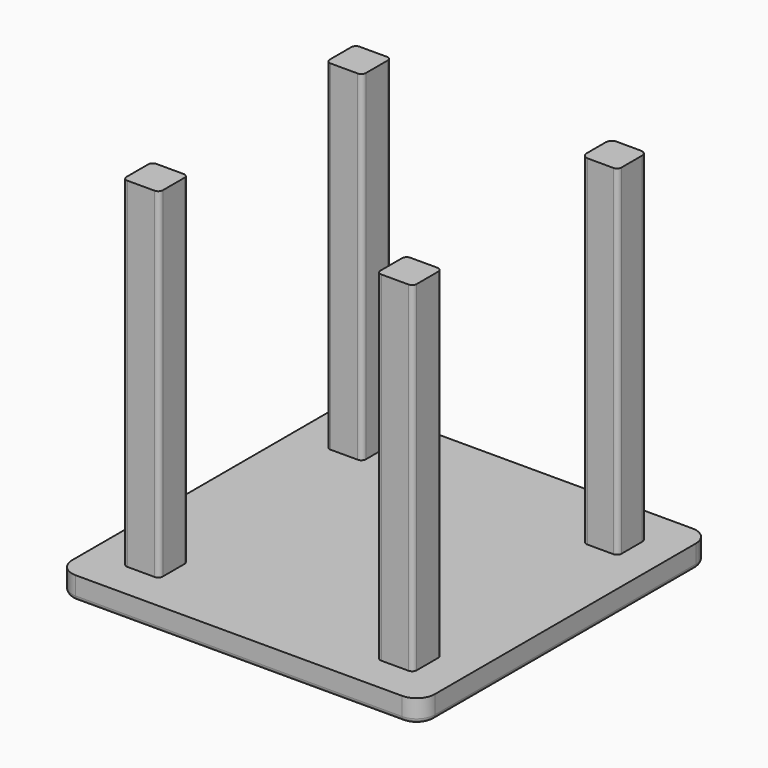
from build123d import *

# Parameters (mm, degrees)
F1_DEPTH = 25
F6_DEPTH = 375
F7_R     = 5


with BuildPart() as f1:
    # F0 (on Top) → F1 (new body)
    with BuildSketch(Plane.XY):
        with BuildLine():
            Line((184.353015, 213.828545), (-175.646985, 213.828545))
            ThreePointArc((-175.646985, 213.828545), (-189.789121, 207.97068), (-195.646985, 193.828545))
            Line((-195.646985, 193.828545), (-195.646985, -166.171455))
            ThreePointArc((-195.646985, -166.171455), (-189.789121, -180.313591), (-175.646985, -186.171455))
            Line((-175.646985, -186.171455), (184.353015, -186.171455))
            ThreePointArc((184.353015, -186.171455), (198.49515, -180.313591), (204.353015, -166.171455))
            Line((204.353015, -166.171455), (204.353015, 193.828545))
            ThreePointArc((204.353015, 193.828545), (198.49515, 207.97068), (184.353015, 213.828545))
        make_face()
    extrude(amount=F1_DEPTH)

    # F2 (on face) + F3 (on face) + F4 (on face) + F5 (on face) → F6 (join)
    with BuildSketch(Plane.XY.offset(25)):
        with BuildLine():
            Line((-120.646985, 173.828545), (-150.646985, 173.828545))
            ThreePointArc((-150.646985, 173.828545), (-154.182519, 172.364079), (-155.646985, 168.828545))
            Line((-155.646985, 168.828545), (-155.646985, 138.828545))
            ThreePointArc((-155.646985, 138.828545), (-154.182519, 135.293011), (-150.646985, 133.828545))
            Line((-150.646985, 133.828545), (-120.646985, 133.828545))
            ThreePointArc((-120.646985, 133.828545), (-117.111451, 135.293011), (-115.646985, 138.828545))
            Line((-115.646985, 138.828545), (-115.646985, 168.828545))
            ThreePointArc((-115.646985, 168.828545), (-117.111451, 172.364079), (-120.646985, 173.828545))
        make_face()
    with BuildSketch(Plane.XY.offset(25)):
        with BuildLine():
            Line((-120.646985, -106.171455), (-150.646985, -106.171455))
            ThreePointArc((-150.646985, -106.171455), (-154.182519, -107.635921), (-155.646985, -111.171455))
            Line((-155.646985, -111.171455), (-155.646985, -141.171455))
            ThreePointArc((-155.646985, -141.171455), (-154.182519, -144.706989), (-150.646985, -146.171455))
            Line((-150.646985, -146.171455), (-120.646985, -146.171455))
            ThreePointArc((-120.646985, -146.171455), (-117.111451, -144.706989), (-115.646985, -141.171455))
            Line((-115.646985, -141.171455), (-115.646985, -111.171455))
            ThreePointArc((-115.646985, -111.171455), (-117.111451, -107.635921), (-120.646985, -106.171455))
        make_face()
    with BuildSketch(Plane.XY.offset(25)):
        with BuildLine():
            Line((159.640082, 173.828545), (132.935292, 173.828545))
            ThreePointArc((132.935292, 173.828545), (128.234725, 171.881506), (126.287687, 167.18094))
            Line((126.287687, 167.18094), (126.287687, 140.476149))
            ThreePointArc((126.287687, 140.476149), (128.234725, 135.775583), (132.935292, 133.828545))
            Line((132.935292, 133.828545), (161.287687, 133.828545))
            ThreePointArc((161.287687, 133.828545), (164.823221, 135.293011), (166.287687, 138.828545))
            Line((166.287687, 138.828545), (166.287687, 167.18094))
            ThreePointArc((166.287687, 167.18094), (164.340649, 171.881506), (159.640082, 173.828545))
        make_face()
    with BuildSketch(Plane.XY.offset(25)):
        with BuildLine():
            Line((159.353015, -106.171455), (129.353015, -106.171455))
            ThreePointArc((129.353015, -106.171455), (125.817481, -107.635921), (124.353015, -111.171455))
            Line((124.353015, -111.171455), (124.353015, -141.171455))
            ThreePointArc((124.353015, -141.171455), (125.817481, -144.706989), (129.353015, -146.171455))
            Line((129.353015, -146.171455), (159.353015, -146.171455))
            ThreePointArc((159.353015, -146.171455), (162.888549, -144.706989), (164.353015, -141.171455))
            Line((164.353015, -141.171455), (164.353015, -111.171455))
            ThreePointArc((164.353015, -111.171455), (162.888549, -107.635921), (159.353015, -106.171455))
        make_face()
    extrude(amount=F6_DEPTH)

    # F7
    f7_edges = [f1.edges().sort_by_distance(p)[0] for p in [
        (4.353015, -186.171455, 0),
    ]]
    fillet(f7_edges, radius=F7_R)


solid = f1.part
